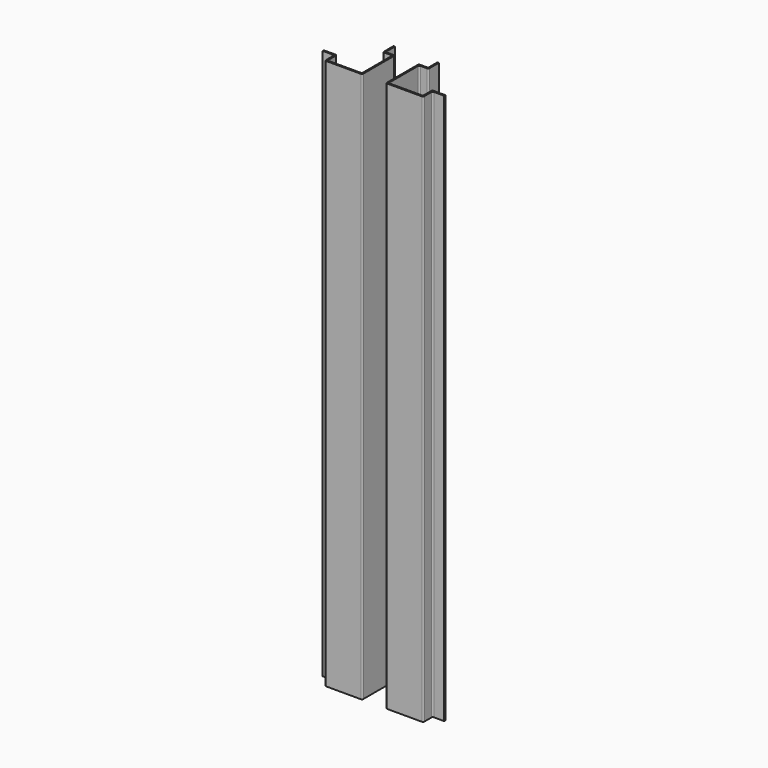
from build123d import *

# Parameters (mm, degrees)
F1_DEPTH = 2355


with BuildPart() as f1:
    # F0 (on Top) → F1 (new body)
    with BuildSketch(Plane.XY):
        with BuildLine():
            Line((-90.999993, -43.999994), (-90.999993, 6e-06))
            Line((-90.999993, 6e-06), (-96.999993, 6e-06))
            Line((-96.999993, 6e-06), (-96.999993, -49.999994))
            ThreePointArc((-96.999993, -49.999994), (-95.242634, -54.242635), (-90.999993, -55.999994))
            Line((-90.999993, -55.999994), (-62.999993, -55.999994))
            ThreePointArc((-62.999993, -55.999994), (-58.757353, -57.757353), (-56.999993, -61.999994))
            Line((-56.999993, -61.999994), (-56.999993, -212.999994))
            ThreePointArc((-56.999993, -212.999994), (-58.757353, -217.242635), (-62.999993, -218.999994))
            Line((-62.999993, -218.999994), (-197.999993, -218.999994))
            ThreePointArc((-197.999993, -218.999994), (-202.242634, -217.242635), (-203.999993, -212.999994))
            Line((-203.999993, -212.999994), (-203.999993, -174.999994))
            ThreePointArc((-203.999993, -174.999994), (-205.757353, -170.757353), (-209.999993, -168.999994))
            Line((-209.999993, -168.999994), (-259.999993, -168.999994))
            Line((-259.999993, -168.999994), (-259.999993, -174.999994))
            Line((-259.999993, -174.999994), (-215.999993, -174.999994))
            ThreePointArc((-215.999993, -174.999994), (-211.757353, -176.757353), (-209.999993, -180.999994))
            Line((-209.999993, -180.999994), (-209.999993, -218.999994))
            ThreePointArc((-209.999993, -218.999994), (-208.242634, -223.242635), (-203.999993, -224.999994))
            Line((-203.999993, -224.999994), (-56.999993, -224.999994))
            ThreePointArc((-56.999993, -224.999994), (-52.757353, -223.242635), (-50.999993, -218.999994))
            Line((-50.999993, -218.999994), (-50.999993, -55.999994))
            ThreePointArc((-50.999993, -55.999994), (-52.757353, -51.757353), (-56.999993, -49.999994))
            Line((-56.999993, -49.999994), (-84.999993, -49.999994))
            ThreePointArc((-84.999993, -49.999994), (-89.242634, -48.242635), (-90.999993, -43.999994))
        make_face()
    extrude(amount=F1_DEPTH)


with BuildPart() as f2_1:
    # F2: instance of F1
    add(f1.part.mirror(Plane.YZ))


solid = Compound([f1.part, f2_1.part])
